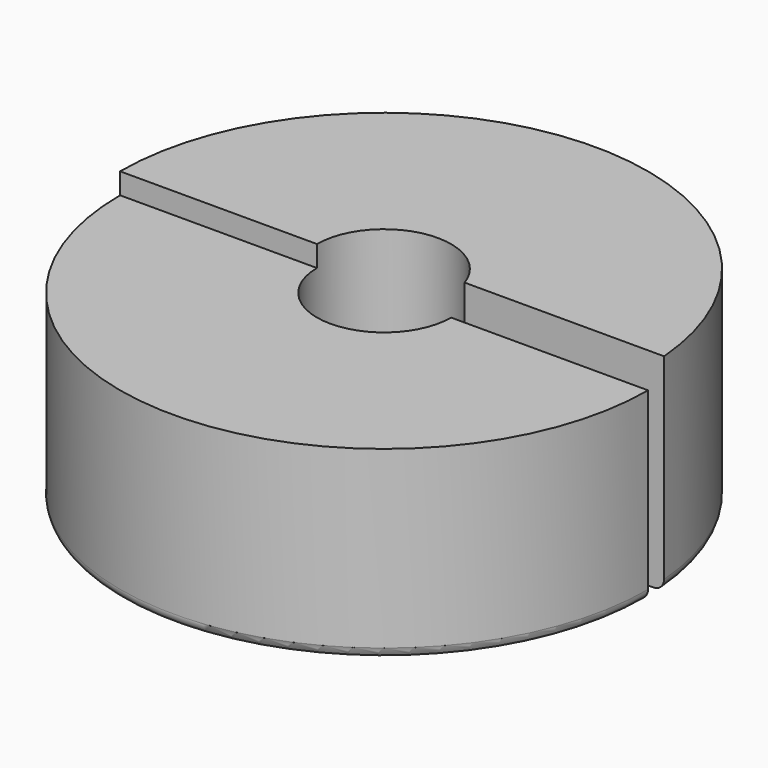
from build123d import *

# Parameters (mm, degrees)
SKETCH001_R   = 12.5
SKETCH001_R_2 = 3.175
PAD_DEPTH     = 8.8
PAD002_DEPTH  = 1
FILLET_R      = 0.5
SKETCH007_W   = 9.8
SKETCH007_H   = 1
POCKET_DEPTH  = 9.8


with BuildPart() as part:
    # Sketch001 → Pad (new body)
    with BuildSketch(Plane.XY):
        Circle(SKETCH001_R)
        Circle(SKETCH001_R_2, mode=Mode.SUBTRACT)
    extrude(amount=PAD_DEPTH)

    # Sketch003 → Pad002 (new body)
    with BuildSketch(Plane.XY.offset(8.8)):
        with BuildLine():
            Line((-12.5, 0), (-3.175, 0))
            ThreePointArc((3.175, 0), (0, 3.175), (-3.175, 0))
            Line((3.175, 0), (12.5, 0))
            ThreePointArc((12.5, 0), (0, 12.5), (-12.5, 0))
        make_face()
    extrude(amount=PAD002_DEPTH)

    # Fillet
    fillet_edges = [part.edges().sort_by_distance(p)[0] for p in [
        (-12.5, 0, 0),
    ]]
    fillet(fillet_edges, radius=FILLET_R)

    # Sketch007 → Pocket (cut)
    with BuildSketch(Plane(origin=(0, 0, 0), x_dir=(1, 0, 0), z_dir=(0, 0, -1))):
        with Locations((7.7, -0.5)):
            Rectangle(SKETCH007_W, SKETCH007_H)
    extrude(amount=-POCKET_DEPTH, mode=Mode.SUBTRACT)


solid = part.part
